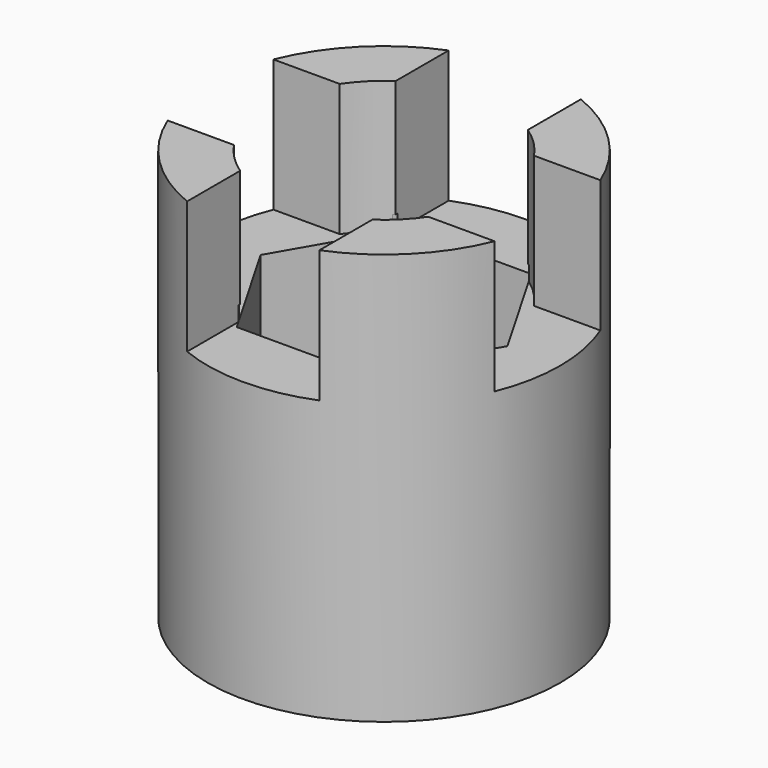
from build123d import *

# Parameters (mm, degrees)
CYLINDER019_R     = 4
CYLINDER019_DEPTH = 4.5
CUBE028_W         = 20
CUBE028_H         = 4.5
CUBE028_DEPTH     = 4.5
CUBE029_W         = 4.5
CUBE029_H         = 20
CUBE029_DEPTH     = 4.5
PRISM022_DEPTH    = 10
CYLINDER018_R     = 6
CYLINDER018_DEPTH = 14


with BuildPart() as cylinder019:
    # cylinder019 → cylinder019 (new body)
    with BuildSketch(Plane(origin=(-66.9, -66.9, -7), x_dir=(1, 0, 0), z_dir=(0, 0, 1))):
        Circle(CYLINDER019_R)
    extrude(amount=CYLINDER019_DEPTH)


with BuildPart() as cube028:
    # cube028 → cube028 (new body)
    with BuildSketch(Plane(origin=(-76.9, -69.15, -7), x_dir=(1, 0, 0), z_dir=(0, 0, 1))):
        with Locations((10, 2.25)):
            Rectangle(CUBE028_W, CUBE028_H)
    extrude(amount=CUBE028_DEPTH)


with BuildPart() as cube029:
    # cube029 → cube029 (new body)
    with BuildSketch(Plane(origin=(-69.15, -76.9, -7), x_dir=(1, 0, 0), z_dir=(0, 0, 1))):
        with Locations((2.25, 10)):
            Rectangle(CUBE029_W, CUBE029_H)
    extrude(amount=CUBE029_DEPTH)


with BuildPart() as group012:
    # prism022 → prism022 (new body)
    with BuildSketch(Plane(origin=(-66.9, -66.9, -16.5), x_dir=(1, 0, 0), z_dir=(0, 0, 1))):
        Polygon((4.2, 0), (2.1, 3.637307), (-2.1, 3.637307), (-4.2, 0), (-2.1, -3.637307), (2.1, -3.637307), align=None)
    extrude(amount=PRISM022_DEPTH)

    # Group012: union cylinder019, cube028, cube029
    add(cylinder019.part)
    add(cube028.part)
    add(cube029.part)


with BuildPart() as nut001:
    # cylinder018 → cylinder018 (new body)
    with BuildSketch(Plane(origin=(-66.9, -66.9, -16.5), x_dir=(1, 0, 0), z_dir=(0, 0, 1))):
        Circle(CYLINDER018_R)
    extrude(amount=CYLINDER018_DEPTH)

    # difference007: cut Group012
    add(group012.part, mode=Mode.SUBTRACT)


solid = nut001.part
